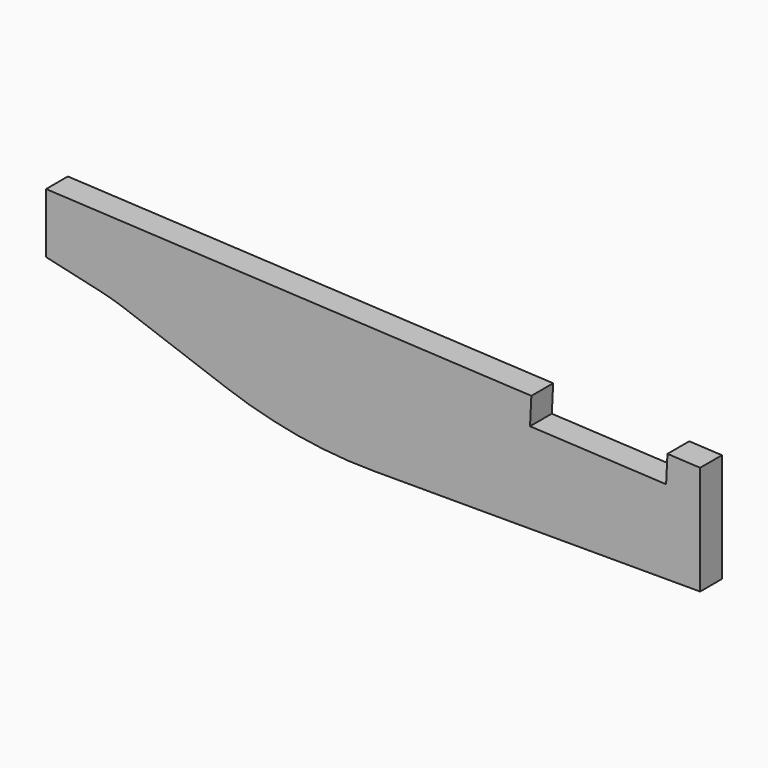
from build123d import *

# Parameters (mm, degrees)
F1_DEPTH = 5
F3_DEPTH = 25


with BuildPart() as f1:
    # F0 (on Front) → F1 (new body)
    with BuildSketch(Plane.XZ):
        with BuildLine():
            Line((0, 20), (-120, 26))
            Line((-120, 26), (-120, 15))
            Line((-120, 15), (-110.250925, 12.773895))
            ThreePointArc((-110.250925, 12.773895), (-107.888962, 12.158173), (-105.568952, 11.399531))
            Line((-105.568952, 11.399531), (-87.172784, 4.756131))
            ThreePointArc((-87.172784, 4.756131), (-73.792942, 1.198003), (-60, 0))
            Line((-60, 0), (0, 0))
            Line((0, 0), (0, 20))
        make_face()
    extrude(amount=F1_DEPTH)

    # F2 (on face) → F3 (cut)
    with BuildSketch(Plane.XZ.offset(5)):
        Polygon((-6.242202, 15.305864), (-5.992514, 20.299626), (-30.961323, 21.548066), (-31.211011, 16.554304), align=None)
    extrude(amount=-F3_DEPTH, mode=Mode.SUBTRACT)


solid = f1.part
